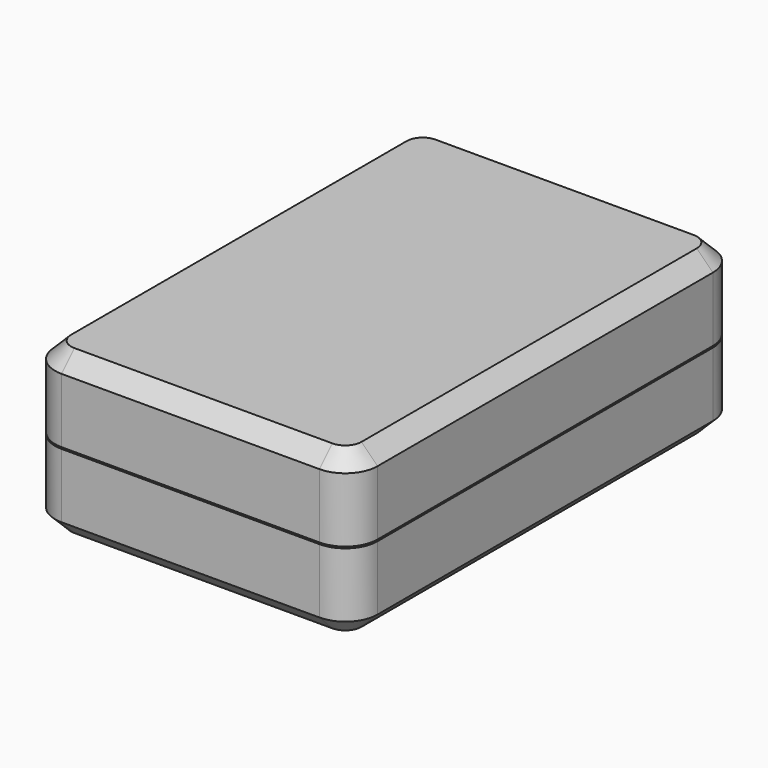
from build123d import *

# Parameters (mm, degrees)
PAD_DEPTH       = 10
PAD001_DEPTH    = 3
POCKET_DEPTH    = 8
CHAMFER001_SIZE = 2
PAD002_DEPTH    = 10
THICKNESS_T     = -2
POCKET001_DEPTH = 3
CHAMFER_SIZE    = 2


with BuildPart() as base:
    # Sketch → Pad (new body)
    with BuildSketch(Plane.XY):
        with BuildLine():
            Line((-20, 26), (-20, -26))
            ThreePointArc((-20, -26), (-18.828427, -28.828427), (-16, -30))
            Line((-16, -30), (16, -30))
            ThreePointArc((16, -30), (18.828427, -28.828427), (20, -26))
            Line((20, -26), (20, 26))
            ThreePointArc((20, 26), (18.828427, 28.828427), (16, 30))
            Line((16, 30), (-16, 30))
            ThreePointArc((-16, 30), (-18.828427, 28.828427), (-20, 26))
        make_face()
    extrude(amount=PAD_DEPTH)

    # Sketch001 → Pad001 (join)
    with BuildSketch(Plane.XY.offset(10)):
        with BuildLine():
            Line((-19, 26), (-19, -26))
            ThreePointArc((-19, -26), (-18.12132, -28.12132), (-16, -29))
            Line((-16, -29), (16, -29))
            ThreePointArc((16, -29), (18.12132, -28.12132), (19, -26))
            Line((19, -26), (19, 26))
            ThreePointArc((19, 26), (18.12132, 28.12132), (16, 29))
            Line((16, 29), (-16, 29))
            ThreePointArc((-16, 29), (-18.12132, 28.12132), (-19, 26))
        make_face()
        with BuildLine():
            Line((-18, 26), (-18, -26))
            ThreePointArc((-18, -26), (-17.414214, -27.414214), (-16, -28))
            Line((-16, -28), (16, -28))
            ThreePointArc((16, -28), (17.414214, -27.414214), (18, -26))
            Line((18, -26), (18, 26))
            ThreePointArc((18, 26), (17.414214, 27.414214), (16, 28))
            Line((16, 28), (-16, 28))
            ThreePointArc((-16, 28), (-17.414214, 27.414214), (-18, 26))
        make_face(mode=Mode.SUBTRACT)
    extrude(amount=PAD001_DEPTH)

    # Sketch002 (on Face28 of Pad001) → Pocket (cut)
    with BuildSketch(Plane.XY.offset(10)):
        with BuildLine():
            Line((-18, 26), (-18, -26))
            ThreePointArc((-18, -26), (-17.414214, -27.414214), (-16, -28))
            Line((-16, -28), (16, -28))
            ThreePointArc((16, -28), (17.414214, -27.414214), (18, -26))
            Line((18, -26), (18, 26))
            ThreePointArc((18, 26), (17.414214, 27.414214), (16, 28))
            Line((16, 28), (-16, 28))
            ThreePointArc((-16, 28), (-17.414214, 27.414214), (-18, 26))
        make_face()
    extrude(amount=-POCKET_DEPTH, mode=Mode.SUBTRACT)

    # Chamfer001
    chamfer001_edges = [base.edges().sort_by_distance(p)[0] for p in [
        (20, 0, 0),
        (18.828427, -28.828427, 0),
        (0, -30, 0),
        (-18.828427, -28.828427, 0),
        (-20, 0, 0),
        (-18.828427, 28.828427, 0),
        (0, 30, 0),
        (18.828427, 28.828427, 0),
    ]]
    chamfer(chamfer001_edges, length=CHAMFER001_SIZE)


with BuildPart() as lid:
    # Sketch003 → Pad002 (new body)
    with BuildSketch(Plane.XY.offset(10.2)):
        with BuildLine():
            Line((-20, 26), (-20, -26))
            ThreePointArc((-20, -26), (-18.828427, -28.828427), (-16, -30))
            Line((-16, -30), (16, -30))
            ThreePointArc((16, -30), (18.828427, -28.828427), (20, -26))
            Line((20, -26), (20, 26))
            ThreePointArc((20, 26), (18.828427, 28.828427), (16, 30))
            Line((16, 30), (-16, 30))
            ThreePointArc((-16, 30), (-18.828427, 28.828427), (-20, 26))
        make_face()
    extrude(amount=PAD002_DEPTH)

    # Thickness
    thickness_openings = [lid.faces().sort_by_distance(p)[0] for p in [
        (0, 0, 10.2),
    ]]
    offset(amount=THICKNESS_T, openings=thickness_openings)

    # Sketch004 (on Face10 of Thickness) → Pocket001 (cut)
    with BuildSketch(Plane(origin=(0, 0, 10.2), x_dir=(1, 0, 0), z_dir=(0, 0, -1))):
        with BuildLine():
            Line((-19.2, 26), (-19.2, -26))
            ThreePointArc((-19.2, -26), (-18.262742, -28.262742), (-16, -29.2))
            Line((-16, -29.2), (16, -29.2))
            ThreePointArc((16, -29.2), (18.262742, -28.262742), (19.2, -26))
            Line((19.2, -26), (19.2, 26))
            ThreePointArc((19.2, 26), (18.262742, 28.262742), (16, 29.2))
            Line((16, 29.2), (-16, 29.2))
            ThreePointArc((-16, 29.2), (-18.262742, 28.262742), (-19.2, 26))
        make_face()
    extrude(amount=-POCKET001_DEPTH, mode=Mode.SUBTRACT)

    # Chamfer
    chamfer_edges = [lid.edges().sort_by_distance(p)[0] for p in [
        (-20, 0, 20.2),
        (-18.828427, -28.828427, 20.2),
        (0, -30, 20.2),
        (20, 0, 20.2),
        (18.828427, 28.828427, 20.2),
        (0, 30, 20.2),
        (-18.828427, 28.828427, 20.2),
    ]]
    chamfer(chamfer_edges, length=CHAMFER_SIZE)


solid = Compound([base.part, lid.part])
